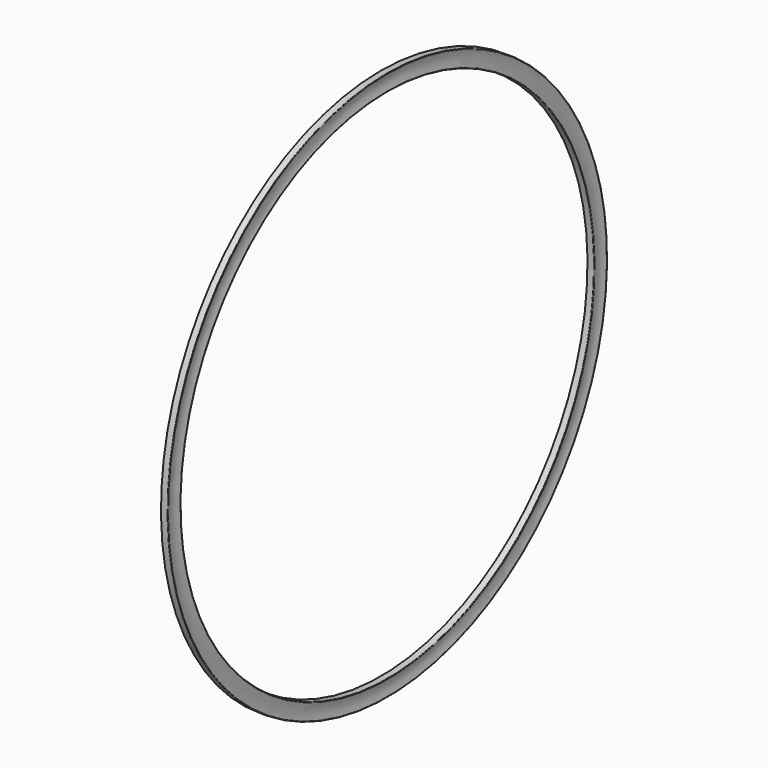
from build123d import *


with BuildPart() as f1:
    # F0 (on Front) → F1 (revolve)
    with BuildSketch(Plane.XZ):
        with BuildLine():
            ThreePointArc((-0.034799, 50.598092), (-0.045264, 50.66675), (-0.107085, 50.6984))
            Line((-0.107085, 50.6984), (-1.277829, 50.6984))
            Line((-1.277829, 50.6984), (-1.277829, 47.7012))
            Line((-1.277829, 47.7012), (-0.107085, 47.7012))
            ThreePointArc((-0.107085, 47.7012), (-0.045264, 47.73285), (-0.034799, 47.801508))
            ThreePointArc((-0.034799, 47.801508), (-0.261829, 49.1998), (-0.034799, 50.598092))
        make_face()
    revolve(axis=Axis((-3.079263, 0, 0), (-1, 0, 0)))


solid = f1.part
